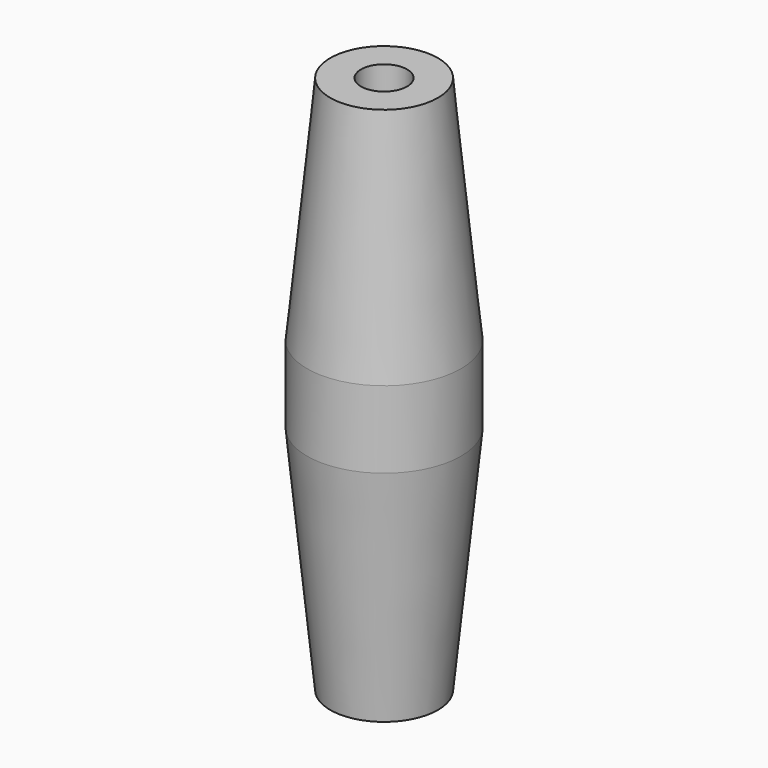
from build123d import *


with BuildPart() as part:
    # Sketch → Revolution (revolve)
    with BuildSketch(Plane.XZ):
        Polygon((3, 35), (7, 35), (10, 5), (10, 0), (0, 0), (0, 1), (3, 1), align=None)
    revolution = revolve(axis=Axis((0, 0, 0), (0, 0, 1)))

    # Mirrored: Revolution across Sketch H_Axis
    add(revolution.mirror(Plane(origin=(0, 0, 0), x_dir=(0, -1, 0), z_dir=(0, 0, 1))))


solid = part.part
